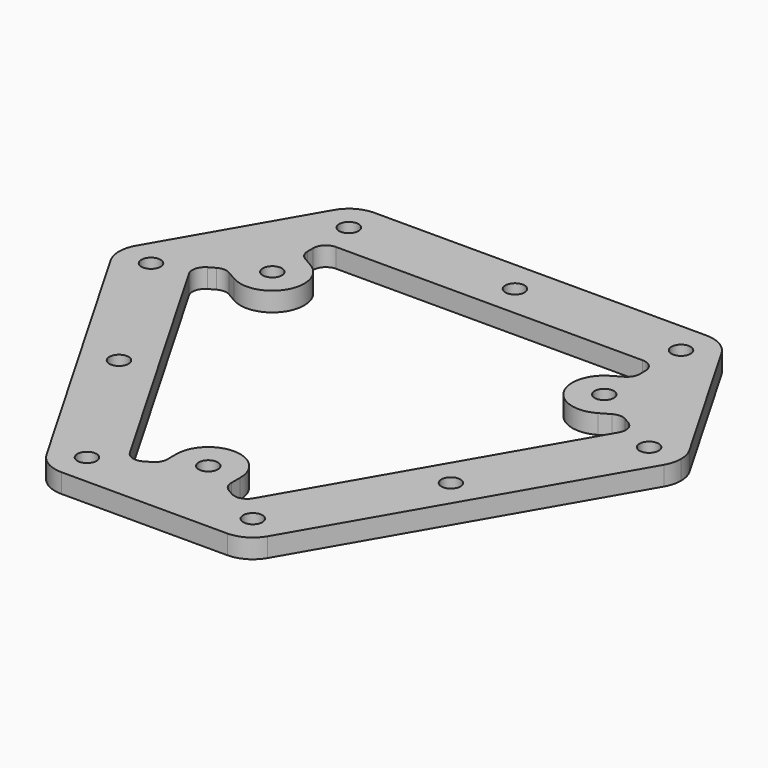
from build123d import *

# Parameters (mm, degrees)
F0_R     = 1.5
F1_DEPTH = 3


with BuildPart() as f1:
    # F0 (on Top) → F1 (new body)
    with BuildSketch(Plane.XY):
        with BuildLine():
            ThreePointArc((26, 35), (22.464466, 26.464466), (31, 30))
            ThreePointArc((31, 30), (30.829629, 31.294095), (30.330127, 32.5))
            ThreePointArc((30.330127, 32.5), (28.5, 34.330127), (26, 35))
        make_face()
        with Locations((26, 30)):
            Circle(F0_R, mode=Mode.SUBTRACT)
        with BuildLine():
            ThreePointArc((30.330127, 32.5), (30.829629, 31.294095), (31, 30))
            ThreePointArc((31, 30), (22.464466, 26.464466), (26, 35))
            Line((26, 35), (-26, 35))
            ThreePointArc((-26, 35), (-22.464466, 33.535534), (-21, 30))
            ThreePointArc((-21, 30), (-27.294095, 25.170371), (-30.330127, 32.5))
            Line((-30.330127, 32.5), (-43.310889, 10.01666))
            ThreePointArc((-43.310889, 10.01666), (-37.686667, 12.34629), (-33.980762, 7.51666))
            ThreePointArc((-33.980762, 7.51666), (-37.686667, 2.687031), (-43.310889, 5.01666))
            Line((-43.310889, 5.01666), (-17.310889, -40.01666))
            ThreePointArc((-17.310889, -40.01666), (-14.274857, -32.687031), (-7.980762, -37.51666))
            ThreePointArc((-7.980762, -37.51666), (-9.445228, -41.052194), (-12.980762, -42.51666))
            Line((-12.980762, -42.51666), (12.980762, -42.51666))
            ThreePointArc((12.980762, -42.51666), (9.445228, -33.981127), (17.980762, -37.51666))
            ThreePointArc((17.980762, -37.51666), (17.810391, -38.810756), (17.310889, -40.01666))
            Line((17.310889, -40.01666), (43.310889, 5.01666))
            ThreePointArc((43.310889, 5.01666), (33.980762, 7.51666), (43.310889, 10.01666))
            Line((43.310889, 10.01666), (30.330127, 32.5))
        make_face()
        with Locations((-25.980762, -15)):
            Circle(F0_R, mode=Mode.SUBTRACT)
        with BuildLine():
            ThreePointArc((32.913325, 11.015246), (33.848011, 9.80077), (33.648709, 8.281274))
            Line((33.648709, 8.281274), (9.652561, -33.281274))
            ThreePointArc((9.652561, -33.281274), (8.43629, -34.213623), (6.91718, -34.011398))
            Line((6.91718, -34.011398), (5.99667, -33.477578))
            ThreePointArc((5.99667, -33.477578), (5.266988, -32.745787), (5, -31.747454))
            Line((5, -31.747454), (5, -30))
            ThreePointArc((5, -30), (0, -25), (-5, -30))
            Line((-5, -30), (-5, -31.747454))
            ThreePointArc((-5, -31.747454), (-5.266988, -32.745787), (-5.99667, -33.477578))
            Line((-5.99667, -33.477578), (-6.91718, -34.011398))
            ThreePointArc((-6.91718, -34.011398), (-8.43629, -34.213623), (-9.652561, -33.281274))
            Line((-9.652561, -33.281274), (-33.648709, 8.281274))
            ThreePointArc((-33.648709, 8.281274), (-33.848011, 9.80077), (-32.913325, 11.015246))
            Line((-32.913325, 11.015246), (-31.990768, 11.545521))
            ThreePointArc((-31.990768, 11.545521), (-30.992178, 11.811548), (-29.994102, 11.5436))
            Line((-29.994102, 11.5436), (-28.480762, 10.669873))
            ThreePointArc((-28.480762, 10.669873), (-21.650635, 12.5), (-23.480762, 19.330127))
            Line((-23.480762, 19.330127), (-24.994102, 20.203854))
            ThreePointArc((-24.994102, 20.203854), (-25.72519, 20.934239), (-25.994098, 21.932057))
            Line((-25.994098, 21.932057), (-25.996145, 22.996152))
            ThreePointArc((-25.996145, 22.996152), (-25.411722, 24.412853), (-23.996149, 25))
            Line((-23.996149, 25), (23.996149, 25))
            ThreePointArc((23.996149, 25), (25.411722, 24.412853), (25.996145, 22.996152))
            Line((25.996145, 22.996152), (25.994098, 21.932057))
            ThreePointArc((25.994098, 21.932057), (25.72519, 20.934239), (24.994102, 20.203854))
            Line((24.994102, 20.203854), (23.480762, 19.330127))
            ThreePointArc((23.480762, 19.330127), (21.650635, 12.5), (28.480762, 10.669873))
            Line((28.480762, 10.669873), (29.994102, 11.5436))
            ThreePointArc((29.994102, 11.5436), (30.992178, 11.811548), (31.990768, 11.545521))
            Line((31.990768, 11.545521), (32.913325, 11.015246))
        make_face(mode=Mode.SUBTRACT)
        with Locations((0, -30)):
            Circle(F0_R, mode=Mode.SUBTRACT)
        with Locations((25.980762, -15)):
            Circle(F0_R, mode=Mode.SUBTRACT)
        with Locations((-25.980762, 15)):
            Circle(F0_R, mode=Mode.SUBTRACT)
        with Locations((25.980762, 15)):
            Circle(F0_R, mode=Mode.SUBTRACT)
        with Locations((0, 30)):
            Circle(F0_R, mode=Mode.SUBTRACT)
        with BuildLine():
            ThreePointArc((43.980762, 7.51666), (43.810391, 8.810756), (43.310889, 10.01666))
            ThreePointArc((43.310889, 10.01666), (33.980762, 7.51666), (43.310889, 5.01666))
            ThreePointArc((43.310889, 5.01666), (43.810391, 6.222565), (43.980762, 7.51666))
        make_face()
        with Locations((38.980762, 7.51666)):
            Circle(F0_R, mode=Mode.SUBTRACT)
        with BuildLine():
            ThreePointArc((-21, 30), (-22.464466, 33.535534), (-26, 35))
            ThreePointArc((-26, 35), (-28.5, 34.330127), (-30.330127, 32.5))
            ThreePointArc((-30.330127, 32.5), (-27.294095, 25.170371), (-21, 30))
        make_face()
        with Locations((-26, 30)):
            Circle(F0_R, mode=Mode.SUBTRACT)
        with BuildLine():
            ThreePointArc((12.980762, -42.51666), (15.480762, -41.846788), (17.310889, -40.01666))
            ThreePointArc((17.310889, -40.01666), (17.810391, -38.810756), (17.980762, -37.51666))
            ThreePointArc((17.980762, -37.51666), (9.445228, -33.981127), (12.980762, -42.51666))
        make_face()
        with Locations((12.980762, -37.51666)):
            Circle(F0_R, mode=Mode.SUBTRACT)
        with BuildLine():
            ThreePointArc((-33.980762, 7.51666), (-37.686667, 12.34629), (-43.310889, 10.01666))
            ThreePointArc((-43.310889, 10.01666), (-43.980762, 7.51666), (-43.310889, 5.01666))
            ThreePointArc((-43.310889, 5.01666), (-37.686667, 2.687031), (-33.980762, 7.51666))
        make_face()
        with Locations((-38.980762, 7.51666)):
            Circle(F0_R, mode=Mode.SUBTRACT)
        with BuildLine():
            ThreePointArc((-17.310889, -40.01666), (-15.480762, -41.846788), (-12.980762, -42.51666))
            ThreePointArc((-12.980762, -42.51666), (-9.445228, -41.052194), (-7.980762, -37.51666))
            ThreePointArc((-7.980762, -37.51666), (-14.274857, -32.687031), (-17.310889, -40.01666))
        make_face()
        with Locations((-12.980762, -37.51666)):
            Circle(F0_R, mode=Mode.SUBTRACT)
    extrude(amount=F1_DEPTH)


solid = f1.part
